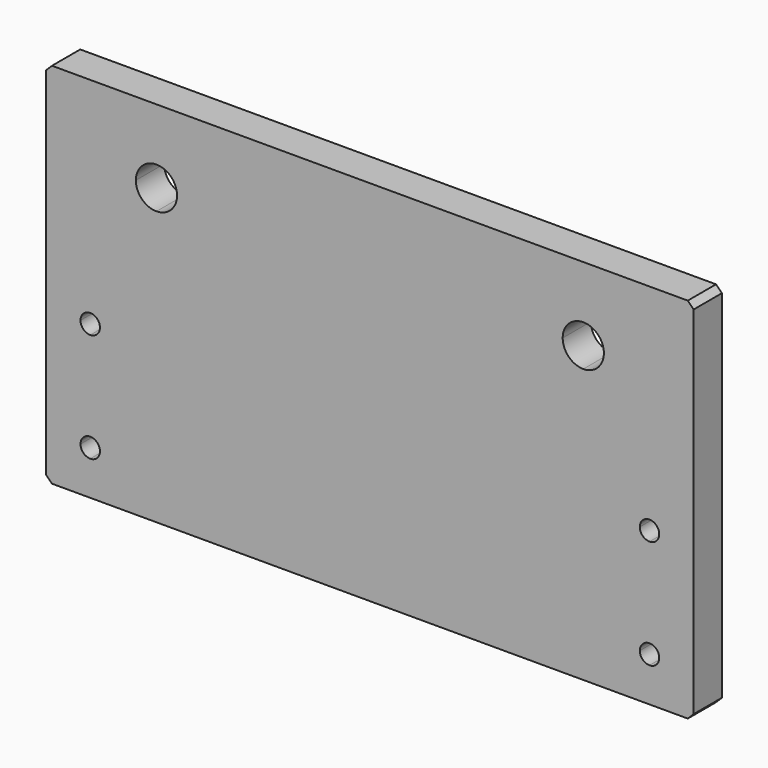
from build123d import *

# Parameters (mm, degrees)
F1_DEPTH = 12


with BuildPart() as f1:
    # F0 (on Front) → F1 (new body)
    with BuildSketch(Plane.XZ):
        Polygon((-196.511762, -66.548446), (19.488238, -66.548446), (21.488238, -64.548446), (21.488238, 56.451554), (19.488238, 58.451554), (-196.511762, 58.451554), (-198.511762, 56.451554), (-198.511762, -64.548446), align=None)
        with BuildLine():
            ThreePointArc((-186.811762, -51.548446), (-185.845214, -49.214994), (-183.511762, -48.248446))
            ThreePointArc((-183.511762, -48.248446), (-181.17831, -49.214994), (-180.211762, -51.548446))
            ThreePointArc((-180.211762, -51.548446), (-181.17831, -53.881898), (-183.511762, -54.848446))
            ThreePointArc((-183.511762, -54.848446), (-185.845214, -53.881898), (-186.811762, -51.548446))
        make_face(mode=Mode.SUBTRACT)
        with BuildLine():
            ThreePointArc((-180.211762, -14.548446), (-181.17831, -16.881898), (-183.511762, -17.848446))
            ThreePointArc((-183.511762, -17.848446), (-185.845214, -16.881898), (-186.811762, -14.548446))
            ThreePointArc((-186.811762, -14.548446), (-185.845214, -12.214994), (-183.511762, -11.248446))
            ThreePointArc((-183.511762, -11.248446), (-181.17831, -12.214994), (-180.211762, -14.548446))
        make_face(mode=Mode.SUBTRACT)
        with BuildLine():
            ThreePointArc((3.188238, -51.548446), (4.154786, -49.214994), (6.488238, -48.248446))
            ThreePointArc((6.488238, -48.248446), (8.82169, -49.214994), (9.788238, -51.548446))
            ThreePointArc((9.788238, -51.548446), (8.82169, -53.881898), (6.488238, -54.848446))
            ThreePointArc((6.488238, -54.848446), (4.154786, -53.881898), (3.188238, -51.548446))
        make_face(mode=Mode.SUBTRACT)
        with BuildLine():
            ThreePointArc((6.488238, -17.848446), (4.154786, -16.881898), (3.188238, -14.548446))
            ThreePointArc((3.188238, -14.548446), (4.154786, -12.214994), (6.488238, -11.248446))
            ThreePointArc((6.488238, -11.248446), (8.82169, -12.214994), (9.788238, -14.548446))
            ThreePointArc((9.788238, -14.548446), (8.82169, -16.881898), (6.488238, -17.848446))
        make_face(mode=Mode.SUBTRACT)
        with BuildLine():
            ThreePointArc((-161.011762, 40.451554), (-156.062015, 38.401301), (-154.011762, 33.451554))
            ThreePointArc((-154.011762, 33.451554), (-156.062015, 28.501807), (-161.011762, 26.451554))
            ThreePointArc((-161.011762, 26.451554), (-165.961509, 28.501807), (-168.011762, 33.451554))
            ThreePointArc((-168.011762, 33.451554), (-165.961509, 38.401301), (-161.011762, 40.451554))
        make_face(mode=Mode.SUBTRACT)
        with BuildLine():
            ThreePointArc((-16.011762, 40.451554), (-11.062015, 38.401301), (-9.011762, 33.451554))
            ThreePointArc((-9.011762, 33.451554), (-11.062015, 28.501807), (-16.011762, 26.451554))
            ThreePointArc((-16.011762, 26.451554), (-20.961509, 28.501807), (-23.011762, 33.451554))
            ThreePointArc((-23.011762, 33.451554), (-20.961509, 38.401301), (-16.011762, 40.451554))
        make_face(mode=Mode.SUBTRACT)
    extrude(amount=-F1_DEPTH)


solid = f1.part
